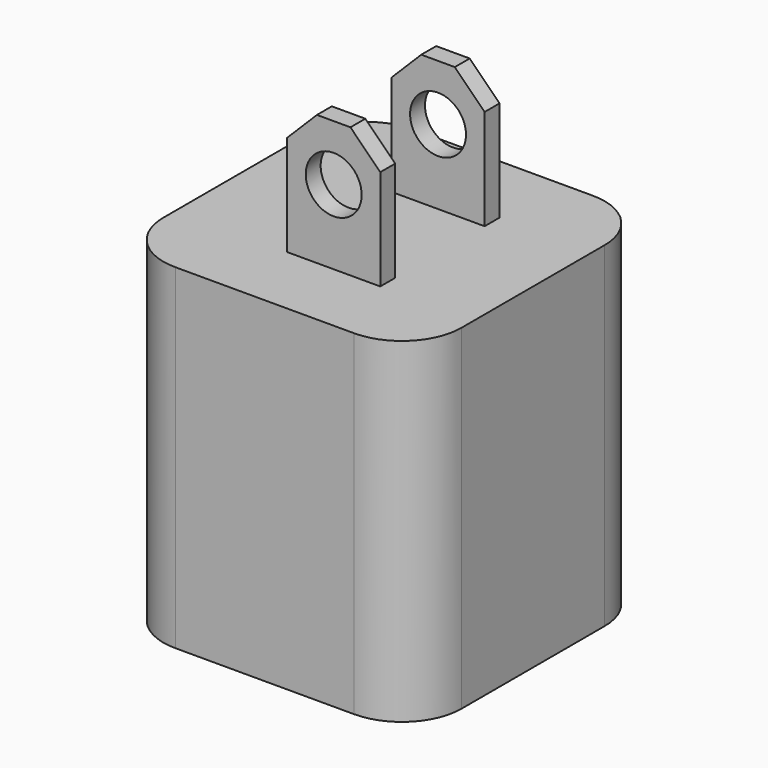
from build123d import *

# Parameters (mm, degrees)
F0_W     = 25.4
F0_H     = 25.4
F1_DEPTH = 28.575
F2_W     = 7.9375
F2_H     = 1.5875
F3_DEPTH = 11.1125
F4_R     = 2.38125
F5_DEPTH = 12.954
F6_R     = 5.08
F7_SIZE  = 2.54
F8_W     = 4.7625
F8_H     = 12.7
F9_DEPTH = 12.7


with BuildPart() as f1:
    # F0 (on Top) → F1 (new body)
    with BuildSketch(Plane.XY):
        with Locations((-12.7, 12.7)):
            Rectangle(F0_W, F0_H)
    extrude(amount=F1_DEPTH)

    # F2 (on face) → F3 (join)
    with BuildSketch(Plane.XY.offset(28.575)):
        with Locations((-11.90625, 7.14375)):
            Rectangle(F2_W, F2_H)
        with Locations((-11.90625, 18.25625)):
            Rectangle(F2_W, F2_H)
    extrude(amount=F3_DEPTH)

    # F4 (on face) → F5 (cut)
    with BuildSketch(Plane.XZ.offset(-6.35)):
        with Locations((-11.90625, 34.925)):
            Circle(F4_R)
    extrude(amount=-F5_DEPTH, mode=Mode.SUBTRACT)

    # F6
    f6_edges = [f1.edges().sort_by_distance(p)[0] for p in [
        (0, 25.4, 14.2875),
        (0, 0, 14.2875),
        (-25.4, 0, 14.2875),
        (-25.4, 25.4, 14.2875),
    ]]
    fillet(f6_edges, radius=F6_R)

    # F7
    f7_edges = [f1.edges().sort_by_distance(p)[0] for p in [
        (-15.875, 18.25625, 39.6875),
        (-7.9375, 18.25625, 39.6875),
        (-7.9375, 7.14375, 39.6875),
        (-15.875, 7.14375, 39.6875),
    ]]
    chamfer(f7_edges, length=F7_SIZE)

    # F8 (on face) → F9 (cut)
    with BuildSketch(Plane(origin=(0, 0, 0), x_dir=(1, 0, 0), z_dir=(0, 0, -1))):
        with Locations((-8.73125, -12.7)):
            Rectangle(F8_W, F8_H)
    extrude(amount=-F9_DEPTH, mode=Mode.SUBTRACT)


solid = f1.part
